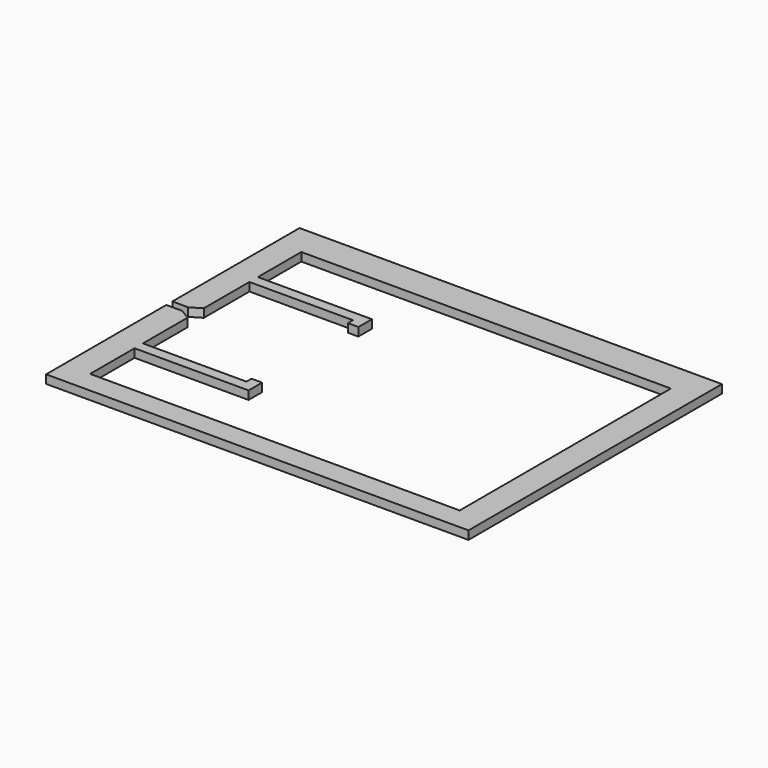
from build123d import *

# Parameters (mm, degrees)
F0_W     = 200
F0_H     = 150
F1_DEPTH = 4
F2_W     = 10
F2_H     = 12.5
F3_DEPTH = 25


with BuildPart() as f1:
    # F0 (on Top) → F1 (new body)
    with BuildSketch(Plane.XY):
        Rectangle(F0_W, F0_H)
    extrude(amount=F1_DEPTH)

    # F2 (on face) → F3 (cut)
    with BuildSketch(Plane.XY.offset(4)):
        Polygon((87.4994372893, -64.5627596692), (87.4994372893, 60.4372403308), (-87.5005627107, 60.4372403308), (-87.5005627107, 34.7239444211), (-41.0005627107, 34.7239444211), (-33.5005627107, 34.7239444211), (-33.5005627107, 26.7239444211), (-38.5005627107, 26.7239444211), (-38.5005627107, 29.7239444211), (-46.0005627107, 29.7239444211), (-87.5005627107, 29.7239444211), (-87.5005627107, 2.7372403308), (-92.5005627107, -0.2627596692), (-100, -0.2627596692), (-100, -3.8627596692), (-92.5005627107, -3.8627596692), (-87.5005627107, -6.8627596692), (-87.5005627107, -33.2760555789), (-38.5005627107, -33.2760555789), (-38.5005627107, -30.2760555789), (-33.5005627107, -30.2760555789), (-33.5005627107, -38.2760555789), (-41.0005627107, -38.2760555789), (-46.0005627107, -38.2760555789), (-87.5005627107, -38.2760555789), (-87.5005627107, -64.5627596692), (-77.5005627107, -64.5627596692), align=None)
        with BuildLine():
            Line((-77.3623862099, 50.4372403308), (-74.3623862099, 50.4372403308))
            Line((-74.3623862099, 50.4372403308), (60.6376137901, 50.4372403308))
            Line((60.6376137901, 50.4372403308), (74.4994372893, 50.4372403308))
            Line((74.4994372893, 50.4372403308), (77.4994372893, 50.4372403308))
            Line((77.4994372893, 50.4372403308), (77.4994372893, 47.4372403308))
            Line((77.4994372893, 47.4372403308), (77.4994372893, -54.5627596692))
            Line((77.4994372893, -54.5627596692), (60.6376137901, -54.5627596692))
            Line((60.6376137901, -54.5627596692), (-77.5005627107, -54.5627596692))
            Line((-77.5005627107, -54.5627596692), (-77.5005627107, -51.5627596692))
            Line((-77.5005627107, -51.5627596692), (60.6376137901, -51.5627596692))
            Line((60.6376137901, -51.5627596692), (69.4994372893, -51.5627596692))
            ThreePointArc((69.4994372893, -51.5627596692), (73.0349711952, -50.0982935751), (74.4994372893, -46.5627596692))
            Line((74.4994372893, -46.5627596692), (74.4994372893, 42.4372403308))
            ThreePointArc((74.4994372893, 42.4372403308), (73.0349711952, 45.9727742368), (69.4994372893, 47.4372403308))
            Line((69.4994372893, 47.4372403308), (60.6376137901, 47.4372403308))
            Line((60.6376137901, 47.4372403308), (57.6376137901, 47.4372403308))
            Line((57.6376137901, 47.4372403308), (-74.3623862099, 47.4372403308))
            Line((-74.3623862099, 47.4372403308), (-77.3623862099, 47.4372403308))
            Line((-77.3623862099, 47.4372403308), (-77.3623862099, 50.4372403308))
        make_face(mode=Mode.SUBTRACT)
        Polygon((39.9994372893, -27.0627596692), (39.9994372893, -2.0627596692), (39.9994372893, 22.9372403308), (39.9994372893, 35.4372403308), (49.9994372893, 35.4372403308), (49.9994372893, 22.9372403308), (49.9994372893, -27.0627596692), (49.9994372893, -39.5627596692), (39.9994372893, -39.5627596692), align=None, mode=Mode.SUBTRACT)
        with BuildLine():
            Line((60.6376137901, 50.4372403308), (-74.3623862099, 50.4372403308))
            Line((-74.3623862099, 50.4372403308), (-77.3623862099, 50.4372403308))
            Line((-77.3623862099, 50.4372403308), (-77.3623862099, 47.4372403308))
            Line((-77.3623862099, 47.4372403308), (-74.3623862099, 47.4372403308))
            Line((-74.3623862099, 47.4372403308), (57.6376137901, 47.4372403308))
            Line((57.6376137901, 47.4372403308), (60.6376137901, 47.4372403308))
            Line((60.6376137901, 47.4372403308), (69.4994372893, 47.4372403308))
            ThreePointArc((69.4994372893, 47.4372403308), (73.0349711952, 45.9727742368), (74.4994372893, 42.4372403308))
            Line((74.4994372893, 42.4372403308), (74.4994372893, -46.5627596692))
            ThreePointArc((74.4994372893, -46.5627596692), (73.0349711952, -50.0982935751), (69.4994372893, -51.5627596692))
            Line((69.4994372893, -51.5627596692), (60.6376137901, -51.5627596692))
            Line((60.6376137901, -51.5627596692), (-77.5005627107, -51.5627596692))
            Line((-77.5005627107, -51.5627596692), (-77.5005627107, -54.5627596692))
            Line((-77.5005627107, -54.5627596692), (60.6376137901, -54.5627596692))
            Line((60.6376137901, -54.5627596692), (77.4994372893, -54.5627596692))
            Line((77.4994372893, -54.5627596692), (77.4994372893, 47.4372403308))
            Line((77.4994372893, 47.4372403308), (77.4994372893, 50.4372403308))
            Line((77.4994372893, 50.4372403308), (74.4994372893, 50.4372403308))
            Line((74.4994372893, 50.4372403308), (60.6376137901, 50.4372403308))
        make_face()
        with Locations((44.9994372893, 29.1872403308)):
            Rectangle(F2_W, F2_H)
        Polygon((39.9994372893, 22.9372403308), (39.9994372893, -2.0627596692), (39.9994372893, -27.0627596692), (49.9994372893, -27.0627596692), (49.9994372893, 22.9372403308), align=None)
        with Locations((44.9994372893, -33.3127596692)):
            Rectangle(F2_W, F2_H)
    extrude(amount=-F3_DEPTH, mode=Mode.SUBTRACT)


solid = f1.part
